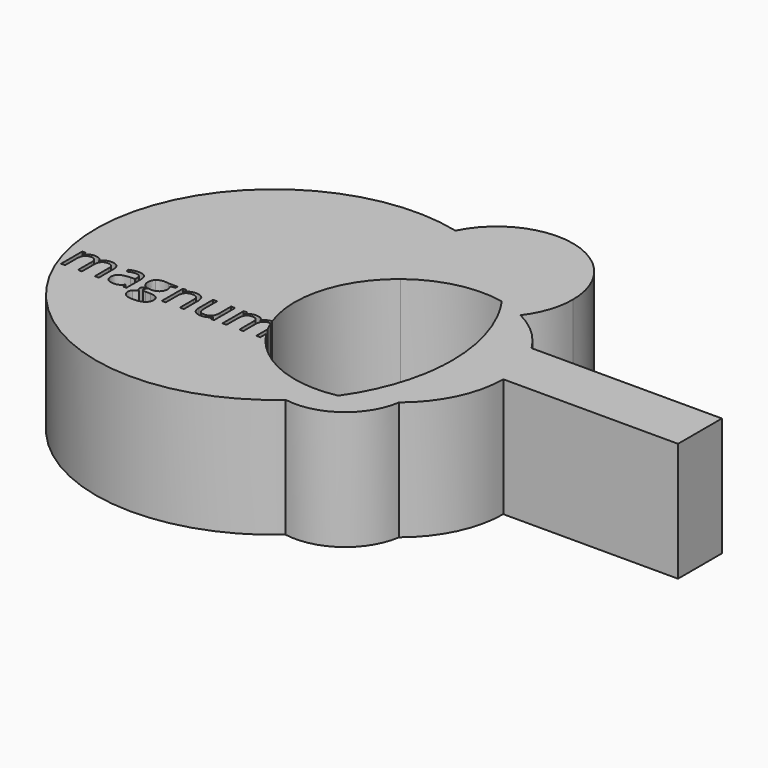
from build123d import *

# Parameters (mm, degrees)
F1_DEPTH = 10


with BuildPart() as f1:
    # F0 (on Top) → F1 (new body)
    with BuildSketch(Plane.XY):
        with BuildLine():
            ThreePointArc((-1.5423670196, 6.7248598344), (-0.3538418529, 3.4553578152), (0.0495659979, 0))
            ThreePointArc((0.0495659979, 0), (-0.0088209843, -1.3221953053), (-0.1835273921, -2.6340974114))
            ThreePointArc((-0.1835273921, -2.6340974114), (0.7788426378, -4.2382897332), (1.113973121, -6.0787452853))
            ThreePointArc((1.113973121, -6.0787452853), (1.0995600068, -6.4664316729), (1.0564002382, -6.851977659))
            ThreePointArc((1.0564002382, -6.851977659), (3.4807328498, -3.8002847501), (4.3456340228, 0))
            Line((4.3456340228, 0), (3.0327348403, 0))
            Line((3.0327348403, 0), (3.0327348403, 4.6189481182))
            ThreePointArc((3.0327348403, 4.6189481182), (1.5041796871, 6.4676475472), (-0.4676121595, 7.8337395458))
            ThreePointArc((-0.4676121595, 7.8337395458), (-0.9714949294, 7.2468358003), (-1.5423670196, 6.7248598344))
        make_face()
        with BuildLine():
            ThreePointArc((-2.6607360006, 8.6001931974), (-2.0673831174, 7.6829030907), (-1.5423670196, 6.7248598344))
            ThreePointArc((-1.5423670196, 6.7248598344), (-0.9714949294, 7.2468358003), (-0.4676121595, 7.8337395458))
            ThreePointArc((-0.4676121595, 7.8337395458), (-1.538715936, 8.2898120846), (-2.6607360006, 8.6001931974))
        make_face()
        with BuildLine():
            ThreePointArc((1.113973121, -6.0787452853), (0.7788426378, -4.2382897332), (-0.1835273921, -2.6340974114))
            ThreePointArc((-0.1835273921, -2.6340974114), (-1.0971478213, -5.7520832742), (-2.6607360006, -8.6001931974))
            ThreePointArc((-2.6607360006, -8.6001931974), (-0.6985098036, -7.9464879978), (1.0564002382, -6.851977659))
            ThreePointArc((1.0564002382, -6.851977659), (1.0995600068, -6.4664316729), (1.113973121, -6.0787452853))
        make_face()
        with BuildLine():
            ThreePointArc((-9.8418891358, 6.9201865576), (-6.4362267245, 8.5506015591), (-2.6607360006, 8.6001931974))
            ThreePointArc((-2.6607360006, 8.6001931974), (-6.4542855068, 12.3618550689), (-11.325566461, 14.5554228832))
            ThreePointArc((-11.325566461, 14.5554228832), (-11.8731698412, 10.4872406462), (-9.8418891358, 6.9201865576))
        make_face()
        with BuildLine():
            ThreePointArc((-11.325566461, 14.5554228832), (-6.4542855068, 12.3618550689), (-2.6607360006, 8.6001931974))
            ThreePointArc((-2.6607360006, 8.6001931974), (-1.538715936, 8.2898120846), (-0.4676121595, 7.8337395458))
            ThreePointArc((-0.4676121595, 7.8337395458), (0.5019315002, 9.6654447709), (0.8367660574, 11.7106940855))
            ThreePointArc((0.8367660574, 11.7106940855), (-4.1163330186, 17.9559885986), (-11.325566461, 14.5554228832))
        make_face()
        with BuildLine():
            ThreePointArc((-12.6723817243, -3.0452819721), (-12.8831898415, 2.399300619), (-9.8418891358, 6.9201865576))
            ThreePointArc((-9.8418891358, 6.9201865576), (-11.8731698412, 10.4872406462), (-11.325566461, 14.5554228832))
            ThreePointArc((-11.325566461, 14.5554228832), (-29.5181015994, -3.5753406515), (-4.9986936664, -11.2233178825))
            ThreePointArc((-4.9986936664, -11.2233178825), (-7.6388983126, -9.9243680645), (-9.1574847648, -7.4040810985))
            ThreePointArc((-9.1574847648, -7.4040810985), (-10.6589317912, -6.1957631854), (-11.8606304837, -4.6890131713))
            Line((-11.8606304837, -4.6890131713), (-11.8606304837, -5.3146567626))
            Line((-11.8606304837, -5.3146567626), (-12.197870067, -5.3146567626))
            Line((-12.197870067, -5.3146567626), (-12.197870067, -4.1067321545))
            ThreePointArc((-12.197870067, -4.1067321545), (-12.3871728551, -3.7270184359), (-12.5579138123, -3.3386042507))
            add(Edge.make_bspline(
                [(-12.5579138123, -3.3386042507), (-12.6083026398, -3.3309328043), (-12.6659690254, -3.3309328043)],
                knots=[0.7599578098, 0.7599578098, 0.7599578098, 1, 1, 1], degree=2))
            add(Edge.make_bspline(
                [(-12.6659690254, -3.3309328043), (-12.981073192, -3.3309328043), (-13.1317893379, -3.5119223876)],
                knots=[0, 0, 0, 1, 1, 1], degree=2))
            add(Edge.make_bspline(
                [(-13.1317893379, -3.5119223876), (-13.2825054837, -3.692911971), (-13.2825054837, -4.0692140543)],
                knots=[0, 0, 0, 1, 1, 1], degree=2))
            Line((-13.2825054837, -4.0692140543), (-13.2825054837, -5.3146567626))
            Line((-13.2825054837, -5.3146567626), (-13.6203961087, -5.3146567626))
            Line((-13.6203961087, -5.3146567626), (-13.6203961087, -3.8641359293))
            add(Edge.make_bspline(
                [(-13.6203961087, -3.8641359293), (-13.6203961087, -3.597208846), (-13.7343284004, -3.4640708251)],
                knots=[0, 0, 0, 1, 1, 1], degree=2))
            add(Edge.make_bspline(
                [(-13.7343284004, -3.4640708251), (-13.848260692, -3.3309328043), (-14.090448192, -3.3309328043)],
                knots=[0, 0, 0, 1, 1, 1], degree=2))
            add(Edge.make_bspline(
                [(-14.090448192, -3.3309328043), (-14.4075054837, -3.3309328043), (-14.5549664212, -3.521036971)],
                knots=[0, 0, 0, 1, 1, 1], degree=2))
            add(Edge.make_bspline(
                [(-14.5549664212, -3.521036971), (-14.7024273587, -3.7111411376), (-14.7024273587, -4.1447348876)],
                knots=[0, 0, 0, 1, 1, 1], degree=2))
            Line((-14.7024273587, -4.1447348876), (-14.7024273587, -5.3146567626))
            Line((-14.7024273587, -5.3146567626), (-15.0403179837, -5.3146567626))
            Line((-15.0403179837, -5.3146567626), (-15.0403179837, -3.0848390543))
            Line((-15.0403179837, -3.0848390543), (-14.7655784004, -3.0848390543))
            Line((-14.7655784004, -3.0848390543), (-14.7108909004, -3.390177596))
            Line((-14.7108909004, -3.390177596), (-14.6946148587, -3.390177596))
            add(Edge.make_bspline(
                [(-14.6946148587, -3.390177596), (-14.5989117337, -3.2274171793), (-14.4247580879, -3.1356203043)],
                knots=[0, 0, 0, 1, 1, 1], degree=2))
            add(Edge.make_bspline(
                [(-14.4247580879, -3.1356203043), (-14.250604442, -3.0438234293), (-14.0351096504, -3.0438234293)],
                knots=[0, 0, 0, 1, 1, 1], degree=2))
            add(Edge.make_bspline(
                [(-14.0351096504, -3.0438234293), (-13.512323192, -3.0438234293), (-13.3515159004, -3.4227296793)],
                knots=[0, 0, 0, 1, 1, 1], degree=2))
            Line((-13.3515159004, -3.4227296793), (-13.3352398587, -3.4227296793))
            add(Edge.make_bspline(
                [(-13.3352398587, -3.4227296793), (-13.2356304837, -3.247599471), (-13.0465028795, -3.1457114501)],
                knots=[0, 0, 0, 1, 1, 1], degree=2))
            add(Edge.make_bspline(
                [(-13.0465028795, -3.1457114501), (-12.8800036282, -3.0560139189), (-12.6723817243, -3.0452819721)],
                knots=[0, 0, 0, 0.8803540448, 0.8803540448, 0.8803540448], degree=2))
        make_face()
        with BuildLine():
            Line((-25.4504742337, -5.3146567626), (-25.787713817, -5.3146567626))
            Line((-25.787713817, -5.3146567626), (-25.787713817, -3.8641359293))
            add(Edge.make_bspline(
                [(-25.787713817, -3.8641359293), (-25.787713817, -3.597208846), (-25.9016461087, -3.4640708251)],
                knots=[0, 0, 0, 1, 1, 1], degree=2))
            add(Edge.make_bspline(
                [(-25.9016461087, -3.4640708251), (-26.0155784004, -3.3309328043), (-26.2558127754, -3.3309328043)],
                knots=[0, 0, 0, 1, 1, 1], degree=2))
            add(Edge.make_bspline(
                [(-26.2558127754, -3.3309328043), (-26.570916942, -3.3309328043), (-26.7216330879, -3.5119223876)],
                knots=[0, 0, 0, 1, 1, 1], degree=2))
            add(Edge.make_bspline(
                [(-26.7216330879, -3.5119223876), (-26.8723492337, -3.692911971), (-26.8723492337, -4.0692140543)],
                knots=[0, 0, 0, 1, 1, 1], degree=2))
            Line((-26.8723492337, -4.0692140543), (-26.8723492337, -5.3146567626))
            Line((-26.8723492337, -5.3146567626), (-27.2102398587, -5.3146567626))
            Line((-27.2102398587, -5.3146567626), (-27.2102398587, -3.8641359293))
            add(Edge.make_bspline(
                [(-27.2102398587, -3.8641359293), (-27.2102398587, -3.597208846), (-27.3241721504, -3.4640708251)],
                knots=[0, 0, 0, 1, 1, 1], degree=2))
            add(Edge.make_bspline(
                [(-27.3241721504, -3.4640708251), (-27.438104442, -3.3309328043), (-27.680291942, -3.3309328043)],
                knots=[0, 0, 0, 1, 1, 1], degree=2))
            add(Edge.make_bspline(
                [(-27.680291942, -3.3309328043), (-27.9973492337, -3.3309328043), (-28.1448101712, -3.521036971)],
                knots=[0, 0, 0, 1, 1, 1], degree=2))
            add(Edge.make_bspline(
                [(-28.1448101712, -3.521036971), (-28.2922711087, -3.7111411376), (-28.2922711087, -4.1447348876)],
                knots=[0, 0, 0, 1, 1, 1], degree=2))
            Line((-28.2922711087, -4.1447348876), (-28.2922711087, -5.3146567626))
            Line((-28.2922711087, -5.3146567626), (-28.6301617337, -5.3146567626))
            Line((-28.6301617337, -5.3146567626), (-28.6301617337, -3.0848390543))
            Line((-28.6301617337, -3.0848390543), (-28.3554221504, -3.0848390543))
            Line((-28.3554221504, -3.0848390543), (-28.3007346504, -3.390177596))
            Line((-28.3007346504, -3.390177596), (-28.2844586087, -3.390177596))
            add(Edge.make_bspline(
                [(-28.2844586087, -3.390177596), (-28.1887554837, -3.2274171793), (-28.0146018379, -3.1356203043)],
                knots=[0, 0, 0, 1, 1, 1], degree=2))
            add(Edge.make_bspline(
                [(-28.0146018379, -3.1356203043), (-27.840448192, -3.0438234293), (-27.6249534004, -3.0438234293)],
                knots=[0, 0, 0, 1, 1, 1], degree=2))
            add(Edge.make_bspline(
                [(-27.6249534004, -3.0438234293), (-27.102166942, -3.0438234293), (-26.9413596504, -3.4227296793)],
                knots=[0, 0, 0, 1, 1, 1], degree=2))
            Line((-26.9413596504, -3.4227296793), (-26.9250836087, -3.4227296793))
            add(Edge.make_bspline(
                [(-26.9250836087, -3.4227296793), (-26.8254742337, -3.247599471), (-26.6363466295, -3.1457114501)],
                knots=[0, 0, 0, 1, 1, 1], degree=2))
            add(Edge.make_bspline(
                [(-26.6363466295, -3.1457114501), (-26.4472190254, -3.0438234293), (-26.2050315254, -3.0438234293)],
                knots=[0, 0, 0, 1, 1, 1], degree=2))
            add(Edge.make_bspline(
                [(-26.2050315254, -3.0438234293), (-25.826776317, -3.0438234293), (-25.6386252754, -3.2381593668)],
                knots=[0, 0, 0, 1, 1, 1], degree=2))
            add(Edge.make_bspline(
                [(-25.6386252754, -3.2381593668), (-25.4504742337, -3.4324953043), (-25.4504742337, -3.8602296793)],
                knots=[0, 0, 0, 1, 1, 1], degree=2))
            Line((-25.4504742337, -3.8602296793), (-25.4504742337, -5.3146567626))
        make_face(mode=Mode.SUBTRACT)
        with BuildLine():
            Line((-23.1327659004, -5.3146567626), (-23.383416942, -5.3146567626))
            Line((-23.383416942, -5.3146567626), (-23.4504742337, -4.9969484293))
            Line((-23.4504742337, -4.9969484293), (-23.4667502754, -4.9969484293))
            add(Edge.make_bspline(
                [(-23.4667502754, -4.9969484293), (-23.633416942, -5.206583846), (-23.7991070462, -5.2811281168)],
                knots=[0, 0, 0, 1, 1, 1], degree=2))
            add(Edge.make_bspline(
                [(-23.7991070462, -5.2811281168), (-23.9647971504, -5.3556723876), (-24.213495067, -5.3556723876)],
                knots=[0, 0, 0, 1, 1, 1], degree=2))
            add(Edge.make_bspline(
                [(-24.213495067, -5.3556723876), (-24.5448752754, -5.3556723876), (-24.733026317, -5.1844484293)],
                knots=[0, 0, 0, 1, 1, 1], degree=2))
            add(Edge.make_bspline(
                [(-24.733026317, -5.1844484293), (-24.9211773587, -5.013224471), (-24.9211773587, -4.6981203043)],
                knots=[0, 0, 0, 1, 1, 1], degree=2))
            add(Edge.make_bspline(
                [(-24.9211773587, -4.6981203043), (-24.9211773587, -4.022990096), (-23.8410992337, -3.9904380126)],
                knots=[0, 0, 0, 1, 1, 1], degree=2))
            Line((-23.8410992337, -3.9904380126), (-23.4628440254, -3.978068221))
            Line((-23.4628440254, -3.978068221), (-23.4628440254, -3.839396346))
            add(Edge.make_bspline(
                [(-23.4628440254, -3.839396346), (-23.4628440254, -3.5770265543), (-23.5754742337, -3.4520265543)],
                knots=[0, 0, 0, 1, 1, 1], degree=2))
            add(Edge.make_bspline(
                [(-23.5754742337, -3.4520265543), (-23.688104442, -3.3270265543), (-23.9368023587, -3.3270265543)],
                knots=[0, 0, 0, 1, 1, 1], degree=2))
            add(Edge.make_bspline(
                [(-23.9368023587, -3.3270265543), (-24.215448192, -3.3270265543), (-24.567010692, -3.497599471)],
                knots=[0, 0, 0, 1, 1, 1], degree=2))
            Line((-24.567010692, -3.497599471), (-24.6711773587, -3.2391359293))
            add(Edge.make_bspline(
                [(-24.6711773587, -3.2391359293), (-24.506463817, -3.149943221), (-24.3101747545, -3.099161971)],
                knots=[0, 0, 0, 1, 1, 1], degree=2))
            add(Edge.make_bspline(
                [(-24.3101747545, -3.099161971), (-24.113885692, -3.048380721), (-23.9159690254, -3.048380721)],
                knots=[0, 0, 0, 1, 1, 1], degree=2))
            add(Edge.make_bspline(
                [(-23.9159690254, -3.048380721), (-23.5175315254, -3.048380721), (-23.3251487129, -3.2251385335)],
                knots=[0, 0, 0, 1, 1, 1], degree=2))
            add(Edge.make_bspline(
                [(-23.3251487129, -3.2251385335), (-23.1327659004, -3.401896346), (-23.1327659004, -3.792521346)],
                knots=[0, 0, 0, 1, 1, 1], degree=2))
            Line((-23.1327659004, -3.792521346), (-23.1327659004, -5.3146567626))
        make_face(mode=Mode.SUBTRACT)
        with BuildLine():
            Line((-21.383416942, -3.0848390543), (-20.6125836087, -3.0848390543))
            Line((-20.6125836087, -3.0848390543), (-20.6125836087, -3.298380721))
            Line((-20.6125836087, -3.298380721), (-21.0253440254, -3.347208846))
            add(Edge.make_bspline(
                [(-21.0253440254, -3.347208846), (-20.9687034004, -3.4181723876), (-20.9237815254, -3.5334067626)],
                knots=[0, 0, 0, 1, 1, 1], degree=2))
            add(Edge.make_bspline(
                [(-20.9237815254, -3.5334067626), (-20.8788596504, -3.6486411376), (-20.8788596504, -3.792521346)],
                knots=[0, 0, 0, 1, 1, 1], degree=2))
            add(Edge.make_bspline(
                [(-20.8788596504, -3.792521346), (-20.8788596504, -4.120646346), (-21.1028179837, -4.315958846)],
                knots=[0, 0, 0, 1, 1, 1], degree=2))
            add(Edge.make_bspline(
                [(-21.1028179837, -4.315958846), (-21.326776317, -4.511271346), (-21.717401317, -4.511271346)],
                knots=[0, 0, 0, 1, 1, 1], degree=2))
            add(Edge.make_bspline(
                [(-21.717401317, -4.511271346), (-21.817010692, -4.511271346), (-21.9042502754, -4.4949953043)],
                knots=[0, 0, 0, 1, 1, 1], degree=2))
            add(Edge.make_bspline(
                [(-21.9042502754, -4.4949953043), (-22.119745067, -4.608927596), (-22.119745067, -4.7814536376)],
                knots=[0, 0, 0, 1, 1, 1], degree=2))
            add(Edge.make_bspline(
                [(-22.119745067, -4.7814536376), (-22.119745067, -4.8732505126), (-22.0445497545, -4.9168703043)],
                knots=[0, 0, 0, 1, 1, 1], degree=2))
            add(Edge.make_bspline(
                [(-22.0445497545, -4.9168703043), (-21.969354442, -4.960490096), (-21.7864117337, -4.960490096)],
                knots=[0, 0, 0, 1, 1, 1], degree=2))
            Line((-21.7864117337, -4.960490096), (-21.3918804837, -4.960490096))
            add(Edge.make_bspline(
                [(-21.3918804837, -4.960490096), (-21.0292502754, -4.960490096), (-20.8352398587, -5.1131593668)],
                knots=[0, 0, 0, 1, 1, 1], degree=2))
            add(Edge.make_bspline(
                [(-20.8352398587, -5.1131593668), (-20.641229442, -5.2658286376), (-20.641229442, -5.5568442626)],
                knots=[0, 0, 0, 1, 1, 1], degree=2))
            add(Edge.make_bspline(
                [(-20.641229442, -5.5568442626), (-20.641229442, -5.927286971), (-20.938104442, -6.1216229085)],
                knots=[0, 0, 0, 1, 1, 1], degree=2))
            add(Edge.make_bspline(
                [(-20.938104442, -6.1216229085), (-21.234979442, -6.315958846), (-21.8046409004, -6.315958846)],
                knots=[0, 0, 0, 1, 1, 1], degree=2))
            add(Edge.make_bspline(
                [(-21.8046409004, -6.315958846), (-22.2421409004, -6.315958846), (-22.479120067, -6.1531984293)],
                knots=[0, 0, 0, 1, 1, 1], degree=2))
            add(Edge.make_bspline(
                [(-22.479120067, -6.1531984293), (-22.7160992337, -5.9904380126), (-22.7160992337, -5.692911971)],
                knots=[0, 0, 0, 1, 1, 1], degree=2))
            add(Edge.make_bspline(
                [(-22.7160992337, -5.692911971), (-22.7160992337, -5.489786971), (-22.5858909004, -5.3410239501)],
                knots=[0, 0, 0, 1, 1, 1], degree=2))
            add(Edge.make_bspline(
                [(-22.5858909004, -5.3410239501), (-22.455682567, -5.1922609293), (-22.2200054837, -5.1395265543)],
                knots=[0, 0, 0, 1, 1, 1], degree=2))
            add(Edge.make_bspline(
                [(-22.2200054837, -5.1395265543), (-22.305291942, -5.101115096), (-22.3632346504, -5.0197348876)],
                knots=[0, 0, 0, 1, 1, 1], degree=2))
            add(Edge.make_bspline(
                [(-22.3632346504, -5.0197348876), (-22.4211773587, -4.9383546793), (-22.4211773587, -4.8302817626)],
                knots=[0, 0, 0, 1, 1, 1], degree=2))
            add(Edge.make_bspline(
                [(-22.4211773587, -4.8302817626), (-22.4211773587, -4.708536971), (-22.356073192, -4.616740096)],
                knots=[0, 0, 0, 1, 1, 1], degree=2))
            add(Edge.make_bspline(
                [(-22.356073192, -4.616740096), (-22.2909690254, -4.524943221), (-22.1503440254, -4.4396567626)],
                knots=[0, 0, 0, 1, 1, 1], degree=2))
            add(Edge.make_bspline(
                [(-22.1503440254, -4.4396567626), (-22.3235211087, -4.368693221), (-22.432245067, -4.1977947835)],
                knots=[0, 0, 0, 1, 1, 1], degree=2))
            add(Edge.make_bspline(
                [(-22.432245067, -4.1977947835), (-22.5409690254, -4.026896346), (-22.5409690254, -3.8068442626)],
                knots=[0, 0, 0, 1, 1, 1], degree=2))
            add(Edge.make_bspline(
                [(-22.5409690254, -3.8068442626), (-22.5409690254, -3.440958846), (-22.3212424629, -3.2423911376)],
                knots=[0, 0, 0, 1, 1, 1], degree=2))
            add(Edge.make_bspline(
                [(-22.3212424629, -3.2423911376), (-22.1015159004, -3.0438234293), (-21.6991721504, -3.0438234293)],
                knots=[0, 0, 0, 1, 1, 1], degree=2))
            add(Edge.make_bspline(
                [(-21.6991721504, -3.0438234293), (-21.524041942, -3.0438234293), (-21.383416942, -3.0848390543)],
                knots=[0, 0, 0, 1, 1, 1], degree=2))
        make_face(mode=Mode.SUBTRACT)
        with BuildLine():
            Line((-18.2909690254, -5.3146567626), (-18.6288596504, -5.3146567626))
            Line((-18.6288596504, -5.3146567626), (-18.6288596504, -3.8719484293))
            add(Edge.make_bspline(
                [(-18.6288596504, -3.8719484293), (-18.6288596504, -3.5998130126), (-18.7528830879, -3.4653729085)],
                knots=[0, 0, 0, 1, 1, 1], degree=2))
            add(Edge.make_bspline(
                [(-18.7528830879, -3.4653729085), (-18.8769065254, -3.3309328043), (-19.1418804837, -3.3309328043)],
                knots=[0, 0, 0, 1, 1, 1], degree=2))
            add(Edge.make_bspline(
                [(-19.1418804837, -3.3309328043), (-19.4914898587, -3.3309328043), (-19.6542502754, -3.5200604085)],
                knots=[0, 0, 0, 1, 1, 1], degree=2))
            add(Edge.make_bspline(
                [(-19.6542502754, -3.5200604085), (-19.817010692, -3.7091880126), (-19.817010692, -4.1447348876)],
                knots=[0, 0, 0, 1, 1, 1], degree=2))
            Line((-19.817010692, -4.1447348876), (-19.817010692, -5.3146567626))
            Line((-19.817010692, -5.3146567626), (-20.154901317, -5.3146567626))
            Line((-20.154901317, -5.3146567626), (-20.154901317, -3.0848390543))
            Line((-20.154901317, -3.0848390543), (-19.8801617337, -3.0848390543))
            Line((-19.8801617337, -3.0848390543), (-19.8254742337, -3.390177596))
            Line((-19.8254742337, -3.390177596), (-19.809198192, -3.390177596))
            add(Edge.make_bspline(
                [(-19.809198192, -3.390177596), (-19.7050315254, -3.2254640543), (-19.5178570462, -3.1346437418)],
                knots=[0, 0, 0, 1, 1, 1], degree=2))
            add(Edge.make_bspline(
                [(-19.5178570462, -3.1346437418), (-19.330682567, -3.0438234293), (-19.1008648587, -3.0438234293)],
                knots=[0, 0, 0, 1, 1, 1], degree=2))
            add(Edge.make_bspline(
                [(-19.1008648587, -3.0438234293), (-18.697870067, -3.0438234293), (-18.4944195462, -3.2381593668)],
                knots=[0, 0, 0, 1, 1, 1], degree=2))
            add(Edge.make_bspline(
                [(-18.4944195462, -3.2381593668), (-18.2909690254, -3.4324953043), (-18.2909690254, -3.8602296793)],
                knots=[0, 0, 0, 1, 1, 1], degree=2))
            Line((-18.2909690254, -3.8602296793), (-18.2909690254, -5.3146567626))
        make_face(mode=Mode.SUBTRACT)
        with BuildLine():
            Line((-17.621698192, -3.0848390543), (-17.279901317, -3.0848390543))
            Line((-17.279901317, -3.0848390543), (-17.279901317, -4.5314536376))
            add(Edge.make_bspline(
                [(-17.279901317, -4.5314536376), (-17.279901317, -4.804240096), (-17.1558778795, -4.9383546793)],
                knots=[0, 0, 0, 1, 1, 1], degree=2))
            add(Edge.make_bspline(
                [(-17.1558778795, -4.9383546793), (-17.031854442, -5.0724692626), (-16.7675315254, -5.0724692626)],
                knots=[0, 0, 0, 1, 1, 1], degree=2))
            add(Edge.make_bspline(
                [(-16.7675315254, -5.0724692626), (-16.4172711087, -5.0724692626), (-16.2558127754, -4.8813885335)],
                knots=[0, 0, 0, 1, 1, 1], degree=2))
            add(Edge.make_bspline(
                [(-16.2558127754, -4.8813885335), (-16.094354442, -4.6903078043), (-16.094354442, -4.2567140543)],
                knots=[0, 0, 0, 1, 1, 1], degree=2))
            Line((-16.094354442, -4.2567140543), (-16.094354442, -3.0848390543))
            Line((-16.094354442, -3.0848390543), (-15.756463817, -3.0848390543))
            Line((-15.756463817, -3.0848390543), (-15.756463817, -5.3146567626))
            Line((-15.756463817, -5.3146567626), (-16.0351096504, -5.3146567626))
            Line((-16.0351096504, -5.3146567626), (-16.0839377754, -5.0158286376))
            Line((-16.0839377754, -5.0158286376), (-16.102166942, -5.0158286376))
            add(Edge.make_bspline(
                [(-16.102166942, -5.0158286376), (-16.205682567, -5.1805421793), (-16.3899273587, -5.2681072835)],
                knots=[0, 0, 0, 1, 1, 1], degree=2))
            add(Edge.make_bspline(
                [(-16.3899273587, -5.2681072835), (-16.5741721504, -5.3556723876), (-16.8105002754, -5.3556723876)],
                knots=[0, 0, 0, 1, 1, 1], degree=2))
            add(Edge.make_bspline(
                [(-16.8105002754, -5.3556723876), (-17.217401317, -5.3556723876), (-17.4195497545, -5.1623130126)],
                knots=[0, 0, 0, 1, 1, 1], degree=2))
            add(Edge.make_bspline(
                [(-17.4195497545, -5.1623130126), (-17.621698192, -4.9689536376), (-17.621698192, -4.5438234293)],
                knots=[0, 0, 0, 1, 1, 1], degree=2))
            Line((-17.621698192, -4.5438234293), (-17.621698192, -3.0848390543))
        make_face(mode=Mode.SUBTRACT)
        with BuildLine():
            ThreePointArc((1.0564002382, -6.851977659), (-0.6985098036, -7.9464879978), (-2.6607360006, -8.6001931974))
            ThreePointArc((-2.6607360006, -8.6001931974), (-3.7526399959, -9.9804513623), (-4.9986936664, -11.2233178825))
            ThreePointArc((-4.9986936664, -11.2233178825), (-1.0510968954, -10.3120825583), (1.0564002382, -6.851977659))
        make_face()
        with BuildLine():
            ThreePointArc((-4.9986936664, -11.2233178825), (-3.7526399959, -9.9804513623), (-2.6607360006, -8.6001931974))
            ThreePointArc((-2.6607360006, -8.6001931974), (-6.0258705592, -8.6363264796), (-9.1574847648, -7.4040810985))
            ThreePointArc((-9.1574847648, -7.4040810985), (-7.6388983126, -9.9243680645), (-4.9986936664, -11.2233178825))
        make_face()
        with BuildLine():
            Line((19.0577001629, 4.6189481182), (3.0327348403, 4.6189481182))
            ThreePointArc((3.0327348403, 4.6189481182), (4.0110346296, 2.4009574123), (4.3456340228, 0))
            Line((4.3456340228, 0), (19.0577001629, 0))
            Line((19.0577001629, 0), (19.0577001629, 4.6189481182))
        make_face()
        with BuildLine():
            ThreePointArc((4.3456340228, 0), (4.0110346296, 2.4009574123), (3.0327348403, 4.6189481182))
            Line((3.0327348403, 4.6189481182), (3.0327348403, 0))
            Line((3.0327348403, 0), (4.3456340228, 0))
        make_face()
    extrude(amount=F1_DEPTH)


solid = f1.part
